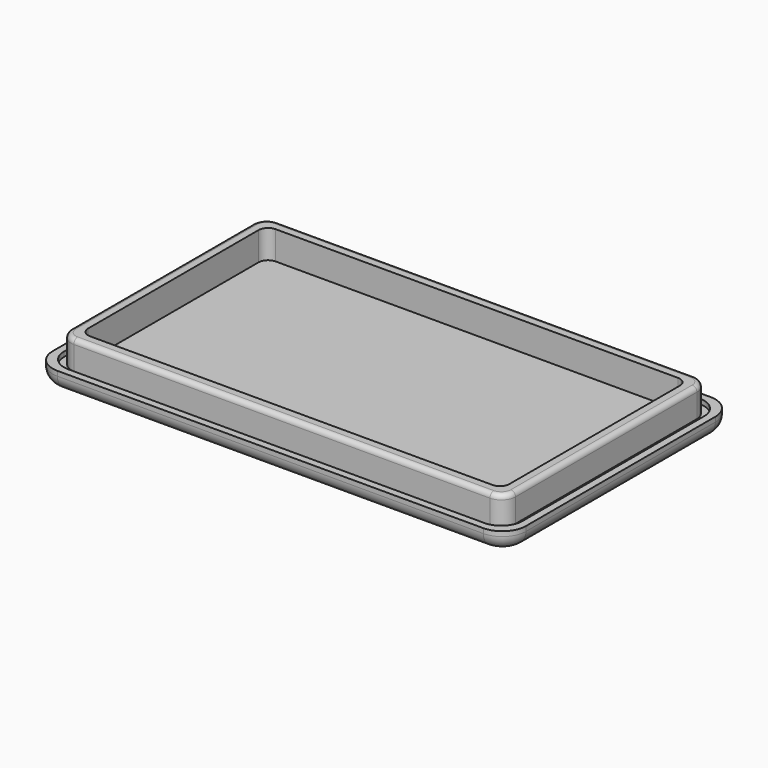
from build123d import *

# Parameters (mm, degrees)
SKETCH_W        = 100
SKETCH_H        = 60
PAD_DEPTH       = 4
FILLET_R        = 5
FILLET001_R     = 3
POCKET001_DEPTH = 1
PAD001_DEPTH    = 5
POCKET_DEPTH    = 6
FILLET002_R     = 1


with BuildPart() as part:
    # Sketch → Pad (new body)
    with BuildSketch(Plane.XY):
        with Locations((50, 30)):
            Rectangle(SKETCH_W, SKETCH_H)
    extrude(amount=PAD_DEPTH)

    # Fillet
    fillet_edges = [part.edges().sort_by_distance(p)[0] for p in [
        (100, 0, 2),
        (0, 0, 2),
        (100, 60, 2),
        (0, 60, 2),
    ]]
    fillet(fillet_edges, radius=FILLET_R)

    # Fillet001
    fillet001_edges = [part.edges().sort_by_distance(p)[0] for p in [
        (50, 60, 0),
    ]]
    fillet(fillet001_edges, radius=FILLET001_R)

    # Sketch008 (on Face6 of Pad) → Pocket001 (cut)
    with BuildSketch(Plane.XY.offset(4)):
        with BuildLine():
            Line((6.05, 1.55), (93.95, 1.55))
            ThreePointArc((93.95, 1.55), (97.131981, 2.868019), (98.45, 6.05))
            Line((98.45, 6.05), (98.45, 53.95))
            ThreePointArc((98.45, 53.95), (97.131981, 57.131981), (93.95, 58.45))
            Line((93.95, 58.45), (6.05, 58.45))
            ThreePointArc((6.05, 58.45), (2.868019, 57.131981), (1.55, 53.95))
            Line((1.55, 53.95), (1.55, 6.05))
            ThreePointArc((1.55, 6.05), (2.868019, 2.868019), (6.05, 1.55))
        make_face()
        with BuildLine():
            Line((6.05, 3.05), (93.95, 3.05))
            ThreePointArc((93.95, 3.05), (96.07132, 3.92868), (96.95, 6.05))
            Line((96.95, 6.05), (96.95, 53.95))
            ThreePointArc((96.95, 53.95), (96.07132, 56.07132), (93.95, 56.95))
            Line((93.95, 56.95), (6.05, 56.95))
            ThreePointArc((6.05, 56.95), (3.92868, 56.07132), (3.05, 53.95))
            Line((3.05, 53.95), (3.05, 6.05))
            ThreePointArc((3.05, 6.05), (3.92868, 3.92868), (6.05, 3.05))
        make_face(mode=Mode.SUBTRACT)
    extrude(amount=-POCKET001_DEPTH, mode=Mode.SUBTRACT)

    # Sketch001 (on Face6 of Pad) → Pad001 (join)
    with BuildSketch(Plane.XY.offset(4)):
        with BuildLine():
            Line((6.05, 3.05), (93.95, 3.05))
            ThreePointArc((93.95, 3.05), (96.07132, 3.92868), (96.95, 6.05))
            Line((96.95, 6.05), (96.95, 53.95))
            ThreePointArc((96.95, 53.95), (96.07132, 56.07132), (93.95, 56.95))
            Line((93.95, 56.95), (6.05, 56.95))
            ThreePointArc((6.05, 56.95), (3.92868, 56.07132), (3.05, 53.95))
            Line((3.05, 53.95), (3.05, 6.05))
            ThreePointArc((3.05, 6.05), (3.92868, 3.92868), (6.05, 3.05))
        make_face()
    extrude(amount=PAD001_DEPTH)

    # Sketch009 (on Face44 of Pad001) → Pocket (cut)
    with BuildSketch(Plane.XY.offset(9)):
        with BuildLine():
            Line((7.5, 5.5), (92.5, 5.5))
            ThreePointArc((92.5, 5.5), (93.914214, 6.085786), (94.5, 7.5))
            Line((94.5, 7.5), (94.5, 52.5))
            ThreePointArc((94.5, 52.5), (93.914214, 53.914214), (92.5, 54.5))
            Line((92.5, 54.5), (7.5, 54.5))
            ThreePointArc((7.5, 54.5), (6.085786, 53.914214), (5.5, 52.5))
            Line((5.5, 52.5), (5.5, 7.5))
            ThreePointArc((5.5, 7.5), (6.085786, 6.085786), (7.5, 5.5))
        make_face()
    extrude(amount=-POCKET_DEPTH, mode=Mode.SUBTRACT)

    # Fillet002
    fillet002_edges = [part.edges().sort_by_distance(p)[0] for p in [
        (50, 3.05, 9),
    ]]
    fillet(fillet002_edges, radius=FILLET002_R)


solid = part.part
